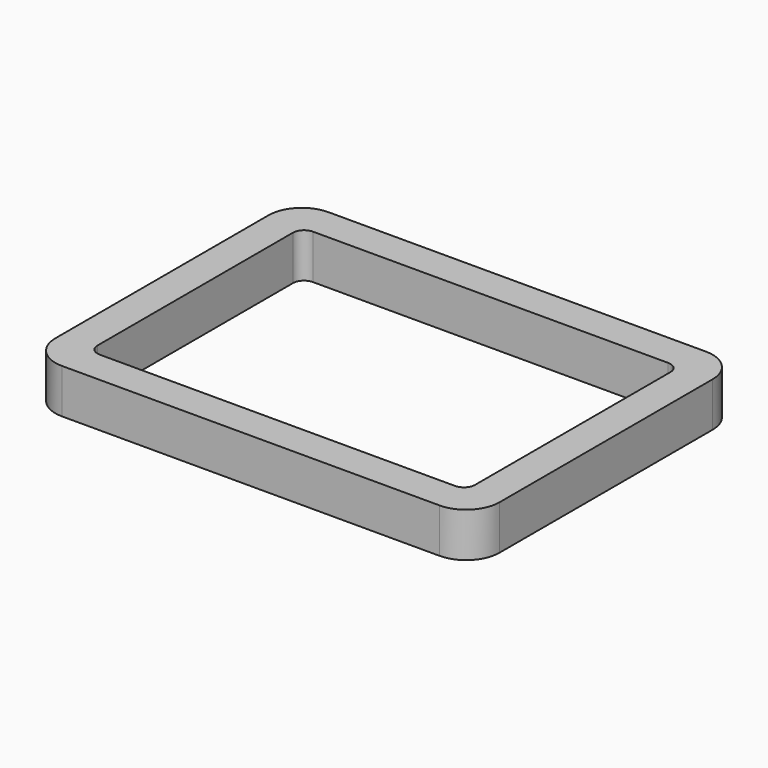
from build123d import *

# Parameters (mm, degrees)
SKETCH_W    = 40
SKETCH_H    = 30
SKETCH_W_2  = 34
SKETCH_H_2  = 24
PAD_DEPTH   = 4
FILLET_R    = 3
FILLET001_R = 1


with BuildPart() as part:
    # Sketch → Pad (new body)
    with BuildSketch(Plane.XY):
        Rectangle(SKETCH_W, SKETCH_H)
        Rectangle(SKETCH_W_2, SKETCH_H_2, mode=Mode.SUBTRACT)
    extrude(amount=PAD_DEPTH)

    # Fillet
    fillet_edges = [part.edges().sort_by_distance(p)[0] for p in [
        (-20, -15, 2),
        (20, -15, 2),
        (20, 15, 2),
        (-20, 15, 2),
    ]]
    fillet(fillet_edges, radius=FILLET_R)

    # Fillet001
    fillet001_edges = [part.edges().sort_by_distance(p)[0] for p in [
        (17, 12, 2),
        (-17, 12, 2),
        (-17, -12, 2),
        (17, -12, 2),
    ]]
    fillet(fillet001_edges, radius=FILLET001_R)


solid = part.part
